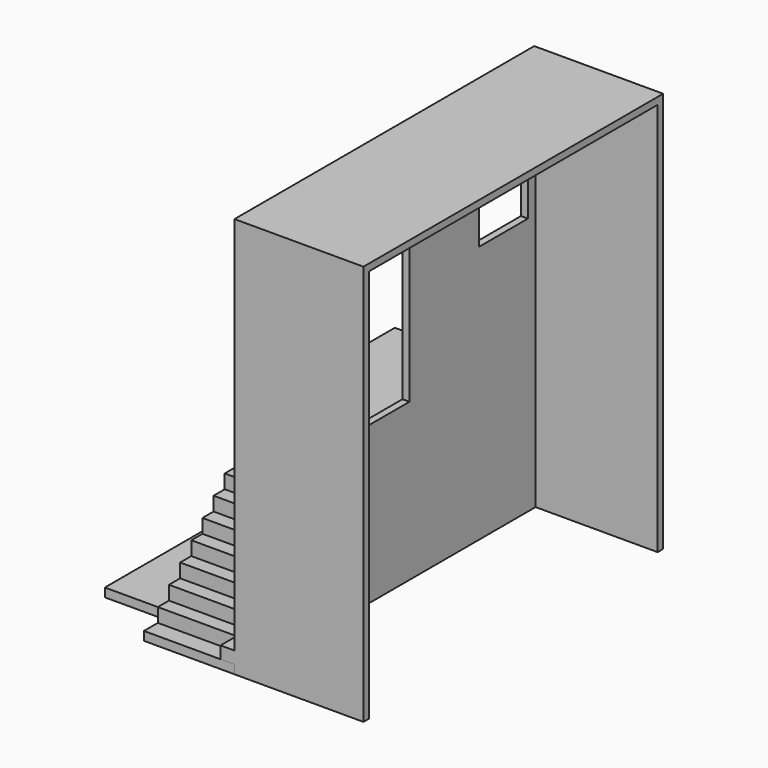
from build123d import *

# Parameters (mm, degrees)
F1_DEPTH = 5461
F3_W     = 5257.8
F3_H     = 5740.4
F4_DEPTH = 1778
F2_W     = 889
F2_H     = 552.45
F2_W_2   = 914.4
F2_H_2   = 2006.6
F2_W_3   = 876.3
F2_H_3   = 1181.1
F5_DEPTH = 1879.601
F7_DEPTH = 1320.8
F8_W     = 6096
F8_H     = 127
F9_DEPTH = 1016


with BuildPart() as f1:
    # F0 (on Front) → F1 (new body)
    with BuildSketch(Plane.XZ):
        Polygon((-203.2, 0), (0, 0), (1879.6, 0), (1879.6, 5842), (0, 5842), (0, 304.8), (-203.2, 304.8), align=None)
    extrude(amount=-F1_DEPTH)

    # F3 (on face) → F4 (cut)
    with BuildSketch(Plane.YZ.offset(1879.6)):
        with Locations((2730.5, 2870.2)):
            Rectangle(F3_W, F3_H)
    extrude(amount=-F4_DEPTH, mode=Mode.SUBTRACT)

    # F2 (on face) → F5 (cut, through all)
    with BuildSketch(Plane(origin=(0, 0, 0), x_dir=(0, -1, 0), z_dir=(-1, 0, 0))):
        with Locations((-4775.2, 4035.425)):
            Rectangle(F2_W, F2_H)
        with Locations((-2603.5, 3289.3)):
            Rectangle(F2_W_2, F2_H_2)
        with Locations((-679.45, 3721.1)):
            Rectangle(F2_W_3, F2_H_3)
    extrude(amount=-F5_DEPTH, mode=Mode.SUBTRACT)


with BuildPart() as f7:
    # F6 (on face) → F7 (new body)
    with BuildSketch(Plane(origin=(0, 0, 0), x_dir=(0, -1, 0), z_dir=(-1, 0, 0))):
        Polygon((-4572, 2159), (-4572, 304.8), (-4572, 0), (0, 0), (0, 127), (-254, 127), (-254, 330.2), (-457.2, 330.2), (-457.2, 533.4), (-660.4, 533.4), (-660.4, 736.6), (-863.6, 736.6), (-863.6, 939.8), (-1066.8, 939.8), (-1066.8, 1143), (-1270, 1143), (-1270, 1346.2), (-1473.2, 1346.2), (-1473.2, 1549.4), (-1676.4, 1549.4), (-1676.4, 1752.6), (-1879.6, 1752.6), (-1879.6, 1955.8), (-2082.8, 1955.8), (-2082.8, 2159), align=None)
    extrude(amount=F7_DEPTH)

    # F8 (on face) → F9 (join)
    with BuildSketch(Plane(origin=(-1320.8, 0, 0), x_dir=(0, -1, 0), z_dir=(-1, 0, 0))):
        with Locations((-3606.8, 63.5)):
            Rectangle(F8_W, F8_H)
    extrude(amount=F9_DEPTH)


solid = Compound([f1.part, f7.part])
